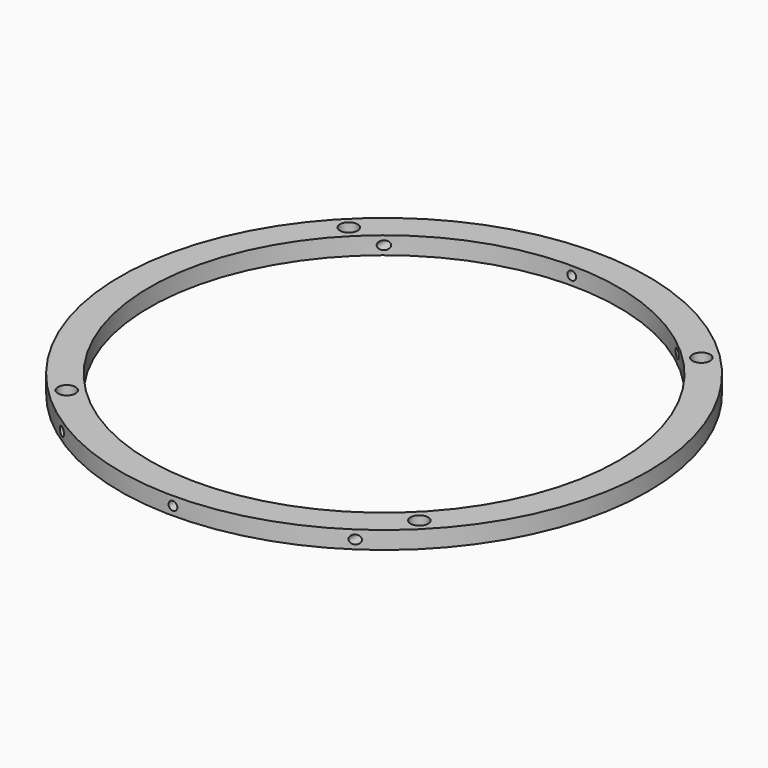
from build123d import *

# Parameters (mm, degrees)
F0_R     = 45
F0_R_2   = 40
F2_DEPTH = 3
F5_D     = 3
F6_R     = 0.75
F7_DEPTH = 50


with BuildPart() as f2:
    # F0 (on Top) → F2 (new body)
    with BuildSketch(Plane.XY):
        Circle(F0_R)
        Circle(F0_R_2, mode=Mode.SUBTRACT)
    extrude(amount=F2_DEPTH)

    # F5 (through all)
    with Locations(Plane.XY.offset(3)):
        with Locations((-30.052038, 30.052038), (-30.052038, -30.052038), (30.052038, -30.052038), (30.052038, 30.052038)):
            Hole(F5_D / 2)

    # F6 (on Front) → F7 (cut, symmetric)
    with BuildSketch(Plane.XZ):
        with Locations((-25, 1.5)):
            Circle(F6_R)
        with Locations((0, 1.5)):
            Circle(F6_R)
        with Locations((25, 1.5)):
            Circle(F6_R)
    extrude(amount=F7_DEPTH, both=True, mode=Mode.SUBTRACT)


solid = f2.part
